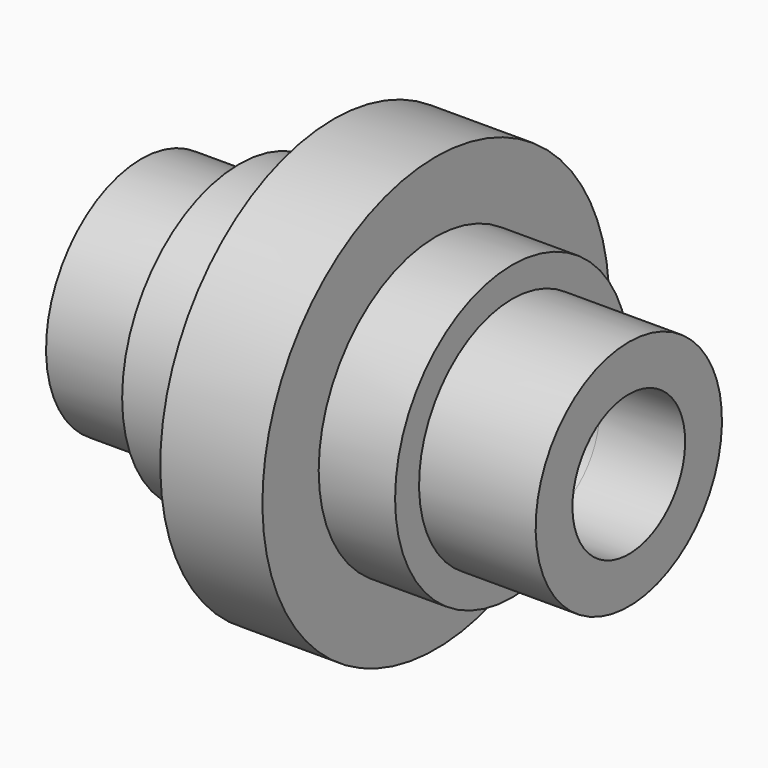
from build123d import *


with BuildPart() as f1:
    # F0 (on Front) → F1 (revolve)
    with BuildSketch(Plane.XZ):
        Polygon((-97.82505, 25.938069), (-62.771387, 25.201321), (34.941703, 25.201321), (46.073571, 25.205852), (76.681621, 25.21831), (76.681621, 41.68978), (34.941703, 41.68978), (34.941703, 52.412558), (7.590632, 52.412558), (7.590632, 77.59431), (-28.9685, 77.59431), (-28.9685, 52.412558), (-62.771387, 52.412558), (-62.771387, 42.655021), (-97.82505, 42.655021), align=None)
    revolve(axis=Axis((11.750303, 0, 0), (1, 0, 0)))


solid = f1.part
